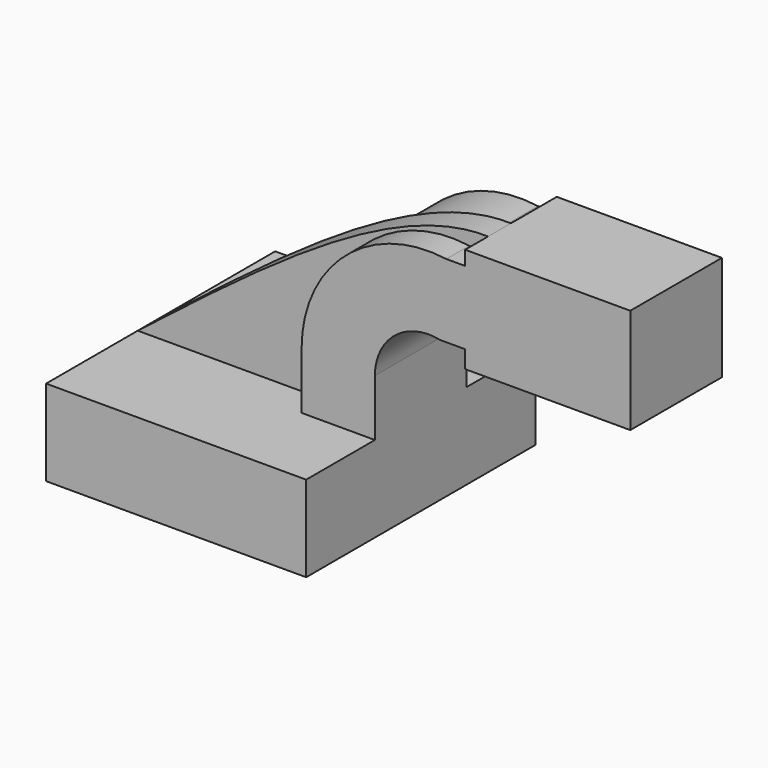
from build123d import *

# Parameters (mm, degrees)
F1_DEPTH = 63.5
F2_DEPTH = 25.4
F3_DEPTH = 12.7


with BuildPart() as f1:
    # F0 (on Front) → F1 (new body, symmetric)
    with BuildSketch(Plane.XZ):
        Polygon((-57.6780065894, 19.0542247146), (-57.6780065894, -19.0542247146), (57.6780065894, -19.0542247146), (57.6780065894, 19.0542247146), (25.1660067588, 19.0542247146), align=None)
    extrude(amount=F1_DEPTH, both=True)

    # F0 (on Front) → F2 (join, symmetric)
    with BuildSketch(Plane.XZ):
        with BuildLine():
            Line((170.935690403, 106.350377202), (97.6905226707, 106.350377202))
            add(Edge.make_bspline(
                [(97.6905226707, 106.350377202), (126.9282830626, 105.5487369377), (148.9319867328, 82.6442750732), (170.935690403, 59.7398132086)],
                knots=[0.5889393883, 0.5889393883, 0.5889393883, 0.5889393883, 1, 1, 1, 1], degree=3))
            Line((170.935690403, 59.7398132086), (170.935690403, 106.350377202))
        make_face()
        with BuildLine():
            add(Edge.make_bspline(
                [(97.6905226707, 106.350377202), (126.9282830626, 105.5487369377), (148.9319867328, 82.6442750732), (170.935690403, 59.7398132086)],
                knots=[0.5889393883, 0.5889393883, 0.5889393883, 0.5889393883, 1, 1, 1, 1], degree=3))
            Line((97.6905226707, 106.350377202), (97.6905226707, 100.020242855))
            Line((97.6905226707, 100.020242855), (97.6905226707, 67.5082430243))
            Line((97.6905226707, 67.5082430243), (97.6905226707, 59.7398132086))
            Line((97.6905226707, 59.7398132086), (170.935690403, 59.7398132086))
        make_face()
        with BuildLine():
            Line((25.1660067588, 19.0542247146), (57.6780065894, 19.0542247146))
            Line((57.6780065894, 19.0542247146), (57.6780065894, 44.2029610276))
            ThreePointArc((57.6780065894, 44.2029610276), (66.5609775012, 62.7717505439), (86.5927711129, 67.5082430243))
            Line((86.5927711129, 67.5082430243), (97.6905226707, 67.5082430243))
            Line((97.6905226707, 67.5082430243), (97.6905226707, 100.020242855))
            Line((97.6905226707, 100.020242855), (89.3401460729, 100.020242855))
            ThreePointArc((89.3401460729, 100.020242855), (44.5390942152, 86.7290974242), (25.1660067588, 44.2029610276))
            Line((25.1660067588, 44.2029610276), (25.1660067588, 19.0542247146))
        make_face()
    extrude(amount=F2_DEPTH, both=True)

    # F0 (on Front) → F3 (join)
    with BuildSketch(Plane.XZ):
        with BuildLine():
            add(Edge.make_bspline(
                [(-57.6780065894, 19.0542247146), (-0.9386686045, 63.2765684914), (55.8006693804, 107.4989122681), (97.6905226707, 106.350377202)],
                knots=[0, 0, 0, 0, 0.5889393883, 0.5889393883, 0.5889393883, 0.5889393883], degree=3))
            Line((-57.6780065894, 19.0542247146), (25.1660067588, 19.0542247146))
            Line((25.1660067588, 19.0542247146), (25.1660067588, 44.2029610276))
            ThreePointArc((25.1660067588, 44.2029610276), (44.5390942152, 86.7290974242), (89.3401460729, 100.020242855))
            Line((89.3401460729, 100.020242855), (97.6905226707, 100.020242855))
            Line((97.6905226707, 100.020242855), (97.6905226707, 106.350377202))
        make_face()
    extrude(amount=F3_DEPTH)


solid = f1.part
